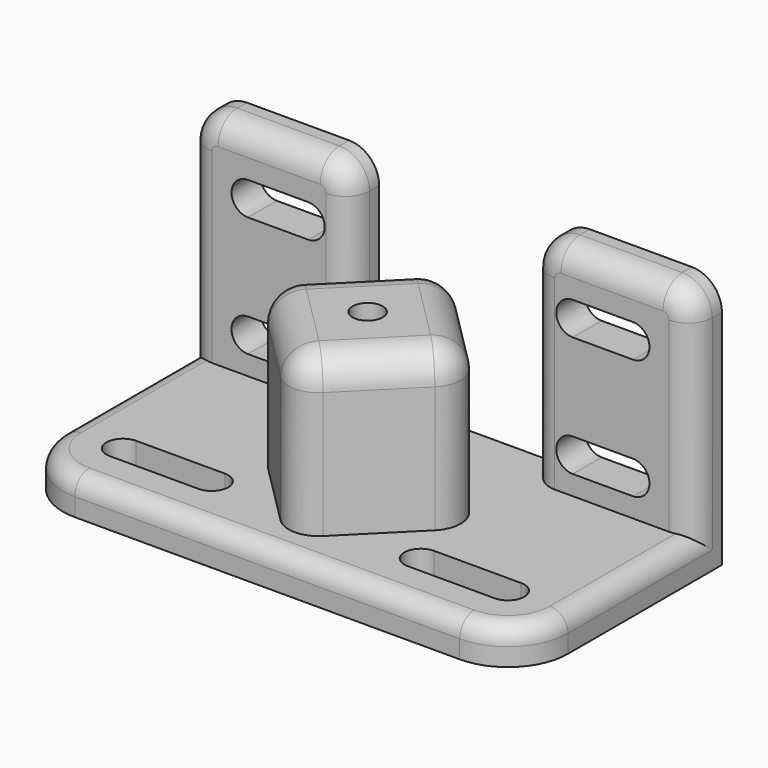
from build123d import *

# Parameters (mm, degrees)
F1_DEPTH = 6
F0_R     = 2.5
F2_DEPTH = 32
F3_R     = 5
F4_R     = 3
F6_DEPTH = 6
F7_R     = 4


with BuildPart() as f1:
    # F0 (on Top) → F1 (new body)
    with BuildSketch(Plane.XY):
        with BuildLine():
            Line((84, 0), (0, 0))
            Line((0, 0), (0, -32))
            ThreePointArc((0, -32), (2.928932, -39.071068), (10, -42))
            Line((10, -42), (74, -42))
            ThreePointArc((74, -42), (81.071068, -39.071068), (84, -32))
            Line((84, -32), (84, 0))
        make_face()
        with BuildLine():
            ThreePointArc((10, -34.75), (7.25, -32), (10, -29.25))
            Line((10, -29.25), (24.74713, -29.25))
            ThreePointArc((24.74713, -29.25), (27.49713, -32), (24.74713, -34.75))
            Line((24.74713, -34.75), (10, -34.75))
        make_face(mode=Mode.SUBTRACT)
        with BuildLine():
            ThreePointArc((59.536784, -34.75), (56.786784, -32), (59.536784, -29.25))
            Line((59.536784, -29.25), (74, -29.25))
            ThreePointArc((74, -29.25), (76.75, -32), (74, -34.75))
            Line((74, -34.75), (59.536784, -34.75))
        make_face(mode=Mode.SUBTRACT)
        Polygon((42.141957, -3.74713), (59.536784, -21.141957), (42.141957, -38.536784), (24.74713, -21.141957), align=None, mode=Mode.SUBTRACT)
    extrude(amount=F1_DEPTH)

    # F0 (on Top) → F2 (join)
    with BuildSketch(Plane.XY):
        Polygon((42.141957, -38.536784), (59.536784, -21.141957), (42.141957, -3.74713), (24.74713, -21.141957), align=None)
        with Locations((42.00013, -21.141957)):
            Circle(F0_R, mode=Mode.SUBTRACT)
    extrude(amount=F2_DEPTH)

    # F3
    f3_edges = [f1.edges().sort_by_distance(p)[0] for p in [
        (42.141957, -38.536784, 19),
        (24.74713, -21.141957, 19),
        (59.536784, -21.141957, 19),
        (42.141957, -3.74713, 19),
        (33.444544, -12.444544, 32),
        (50.83937, -12.444544, 32),
        (50.83937, -29.83937, 32),
        (33.444544, -29.83937, 32),
    ]]
    fillet(f3_edges, radius=F3_R)

    # F4
    f4_edges = [f1.edges().sort_by_distance(p)[0] for p in [
        (42, -42, 6),
    ]]
    fillet(f4_edges, radius=F4_R)

    # F5 (on Front) → F6 (join)
    with BuildSketch(Plane.XZ):
        with BuildLine():
            Line((0, 37), (0, 0))
            Line((0, 0), (27, 0))
            Line((27, 0), (27, 37))
            ThreePointArc((27, 37), (25.535534, 40.535534), (22, 42))
            Line((22, 42), (5, 42))
            ThreePointArc((5, 42), (1.464466, 40.535534), (0, 37))
        make_face()
        with BuildLine():
            ThreePointArc((10, 9.25), (7.25, 12), (10, 14.75))
            Line((10, 14.75), (20, 14.75))
            ThreePointArc((20, 14.75), (22.75, 12), (20, 9.25))
            Line((20, 9.25), (10, 9.25))
        make_face(mode=Mode.SUBTRACT)
        with BuildLine():
            ThreePointArc((20, 34.75), (22.75, 32), (20, 29.25))
            Line((20, 29.25), (10, 29.25))
            ThreePointArc((10, 29.25), (7.25, 32), (10, 34.75))
            Line((10, 34.75), (20, 34.75))
        make_face(mode=Mode.SUBTRACT)
        with BuildLine():
            Line((84, 0), (84, 37))
            ThreePointArc((84, 37), (82.535534, 40.535534), (79, 42))
            Line((79, 42), (62, 42))
            ThreePointArc((62, 42), (58.464466, 40.535534), (57, 37))
            Line((57, 37), (57, 0))
            Line((57, 0), (84, 0))
        make_face()
        with BuildLine():
            ThreePointArc((64, 9.25), (61.25, 12), (64, 14.75))
            Line((64, 14.75), (74, 14.75))
            ThreePointArc((74, 14.75), (76.75, 12), (74, 9.25))
            Line((74, 9.25), (64, 9.25))
        make_face(mode=Mode.SUBTRACT)
        with BuildLine():
            ThreePointArc((64, 29.25), (61.25, 32), (64, 34.75))
            Line((64, 34.75), (74, 34.75))
            ThreePointArc((74, 34.75), (76.75, 32), (74, 29.25))
            Line((74, 29.25), (64, 29.25))
        make_face(mode=Mode.SUBTRACT)
    extrude(amount=F6_DEPTH)

    # F7
    f7_edges = [f1.edges().sort_by_distance(p)[0] for p in [
        (0, -6, 20),
        (84, -6, 20),
    ]]
    fillet(f7_edges, radius=F7_R)


solid = f1.part
